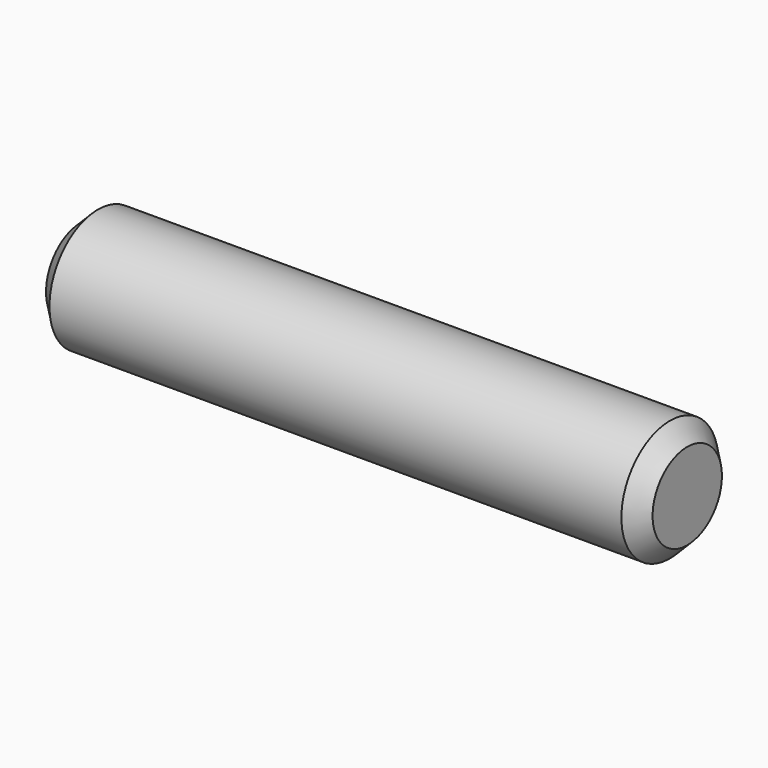
from build123d import *

# Parameters (mm, degrees)
SKETCH_R     = 7
PAD_DEPTH    = 70
CHAMFER_SIZE = 2


with BuildPart() as part:
    # Sketch → Pad (new body)
    with BuildSketch(Plane.YZ):
        Circle(SKETCH_R)
    extrude(amount=PAD_DEPTH)

    # Chamfer
    chamfer_edges = [part.edges().sort_by_distance(p)[0] for p in [
        (0, -7, 0),
        (70, -7, 0),
    ]]
    chamfer(chamfer_edges, length=CHAMFER_SIZE)


solid = part.part
